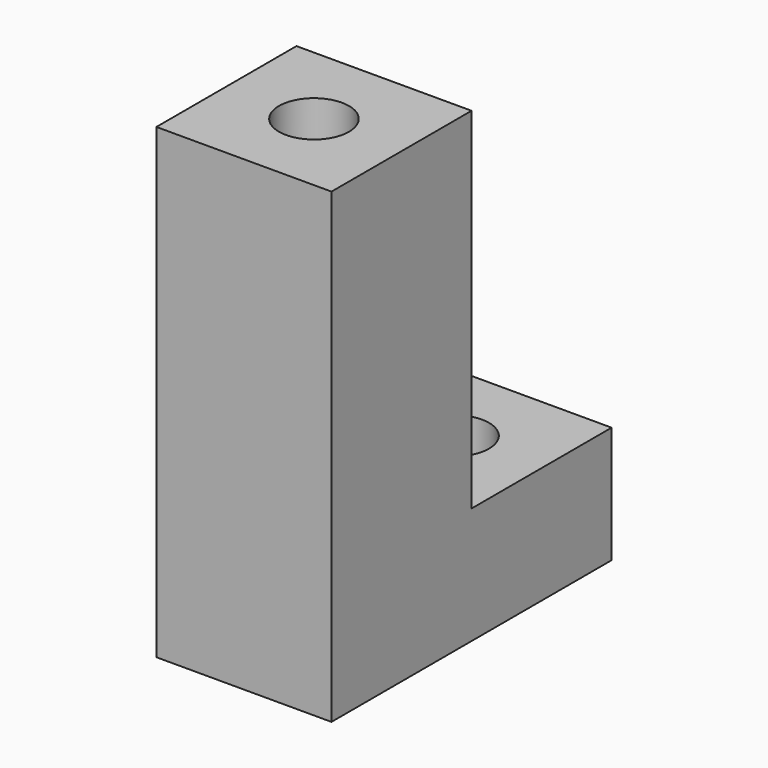
from build123d import *

# Parameters (mm, degrees)
F0_W     = 15
F0_H     = 15
F0_R     = 3
F1_DEPTH = 40
F2_W     = 15
F2_H     = 15
F2_R     = 3
F3_DEPTH = 10
F4_R     = 5
F5_DEPTH = 25


with BuildPart() as f1:
    # F0 (on Top) → F1 (new body)
    with BuildSketch(Plane.XY):
        Rectangle(F0_W, F0_H)
        Circle(F0_R, mode=Mode.SUBTRACT)
    extrude(amount=F1_DEPTH)

    # F2 (on face) → F3 (join)
    with BuildSketch(Plane(origin=(0, 0, 0), x_dir=(1, 0, 0), z_dir=(0, 0, -1))):
        with Locations((0, -15)):
            Rectangle(F2_W, F2_H)
        with Locations((0, -15)):
            Circle(F2_R, mode=Mode.SUBTRACT)
    extrude(amount=-F3_DEPTH)

    # F4 (on face) → F5 (cut)
    with BuildSketch(Plane(origin=(0, 0, 0), x_dir=(1, 0, 0), z_dir=(0, 0, -1))):
        Circle(F4_R)
    extrude(amount=-F5_DEPTH, mode=Mode.SUBTRACT)


solid = f1.part
